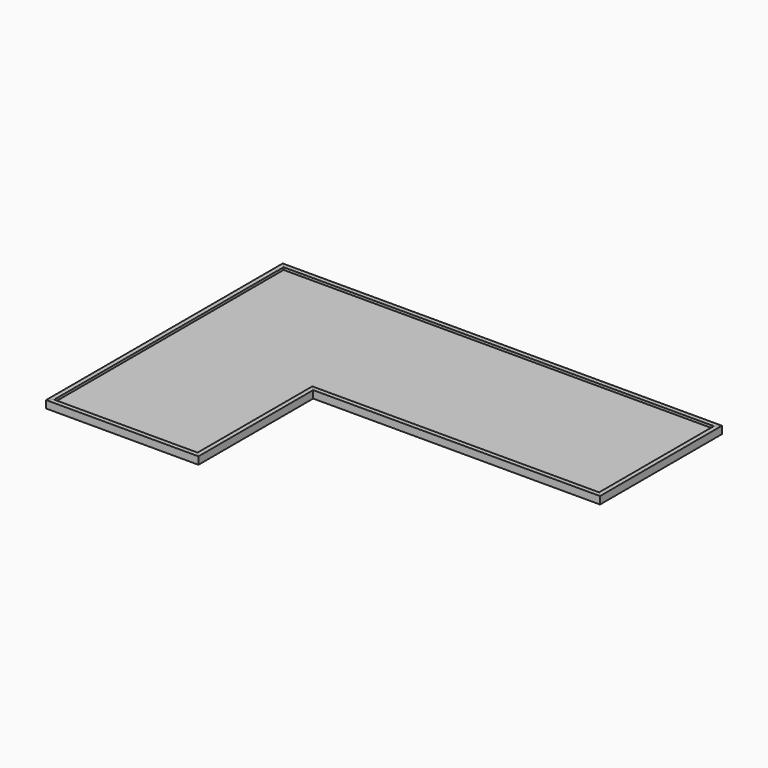
from build123d import *

# Parameters (mm, degrees)
F1_DEPTH = 21.43125
F2_DEPTH = 31.75
F3_DEPTH = 31.75
F4_DEPTH = 31.75
F5_DEPTH = 31.75
F6_DEPTH = 31.75
F7_DEPTH = 31.75


with BuildPart() as f1:
    # F0 (on Top) → F1 (new body)
    with BuildSketch(Plane.XY):
        Polygon((-609.6, 609.6), (-609.6, -609.6), (0, -609.6), (0, 0), (1219.2, 0), (1219.2, 609.6), align=None)
    extrude(amount=F1_DEPTH)


with BuildPart() as f2:
    # F0 (on Top) → F2 (new body)
    with BuildSketch(Plane.XY):
        Polygon((-628.65, -628.65), (-609.6, -609.6), (-609.6, 609.6), (-628.65, 628.65), align=None)
    extrude(amount=F2_DEPTH)


with BuildPart() as f3:
    # F0 (on Top) → F3 (new body)
    with BuildSketch(Plane.XY):
        Polygon((0, -609.6), (-609.6, -609.6), (-628.65, -628.65), (19.05, -628.65), align=None)
    extrude(amount=F3_DEPTH)


with BuildPart() as f4:
    # F0 (on Top) → F4 (new body)
    with BuildSketch(Plane.XY):
        Polygon((0, 0), (0, -609.6), (19.05, -628.65), (19.05, -19.05), align=None)
    extrude(amount=F4_DEPTH)


with BuildPart() as f5:
    # F0 (on Top) → F5 (new body)
    with BuildSketch(Plane.XY):
        Polygon((1219.2, 0), (0, 0), (19.05, -19.05), (1238.25, -19.05), align=None)
    extrude(amount=F5_DEPTH)


with BuildPart() as f6:
    # F0 (on Top) → F6 (new body)
    with BuildSketch(Plane.XY):
        Polygon((1238.25, 628.65), (1219.2, 609.6), (1219.2, 0), (1238.25, -19.05), align=None)
    extrude(amount=F6_DEPTH)


with BuildPart() as f7:
    # F0 (on Top) → F7 (new body)
    with BuildSketch(Plane.XY):
        Polygon((-628.65, 628.65), (-609.6, 609.6), (1219.2, 609.6), (1238.25, 628.65), align=None)
    extrude(amount=F7_DEPTH)


solid = Compound([f1.part, f2.part, f3.part, f4.part, f5.part, f6.part, f7.part])
